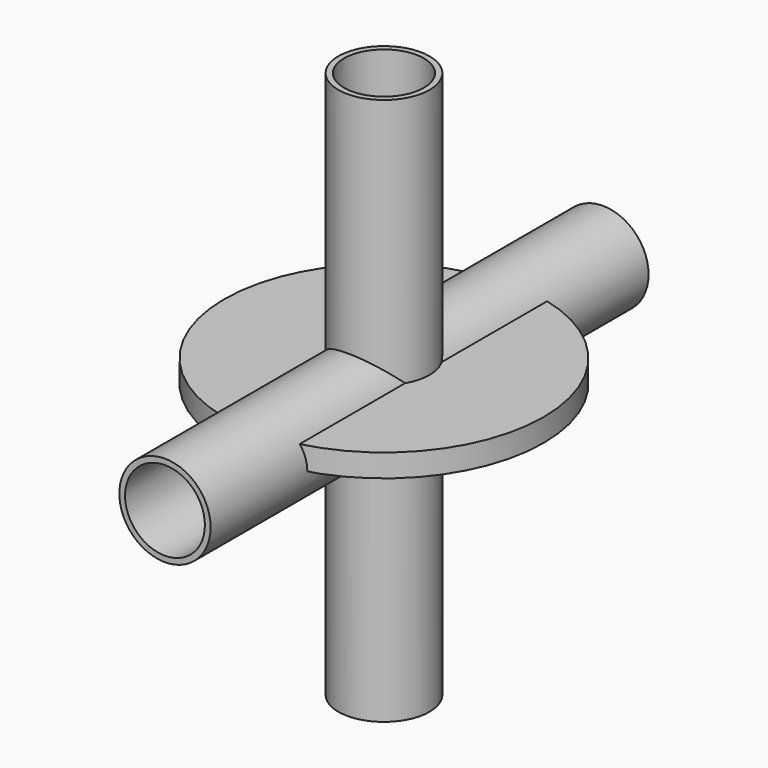
from build123d import *

# Parameters (mm, degrees)
F0_R     = 50.8
F0_R_2   = 44.45
F1_DEPTH = 304.8
F2_R     = 50.8
F2_R_2   = 44.45
F3_DEPTH = 304.8
F4_R     = 177.8
F4_R_2   = 50.8
F5_DEPTH = 19.05
F6_R     = 177.8
F6_R_2   = 50.8
F7_DEPTH = 25.4


with BuildPart() as f1:
    # F0 (on Front) → F1 (new body, symmetric)
    with BuildSketch(Plane.XZ):
        Circle(F0_R)
        Circle(F0_R_2, mode=Mode.SUBTRACT)
    extrude(amount=F1_DEPTH, both=True)


with BuildPart() as f3:
    # F2 (on Top) → F3 (new body, symmetric)
    with BuildSketch(Plane.XY):
        Circle(F2_R)
        Circle(F2_R_2, mode=Mode.SUBTRACT)
    extrude(amount=F3_DEPTH, both=True)


with BuildPart() as f5:
    # F4 (on Top) → F5 (new body)
    with BuildSketch(Plane.XY):
        Circle(F4_R)
        Circle(F4_R_2, mode=Mode.SUBTRACT)
    extrude(amount=F5_DEPTH)


with BuildPart() as f7:
    # F6 (on Top) → F7 (new body)
    with BuildSketch(Plane.XY):
        Circle(F6_R)
        Circle(F6_R_2, mode=Mode.SUBTRACT)
    extrude(amount=F7_DEPTH)


solid = Compound([f1.part, f3.part, f5.part, f7.part])
